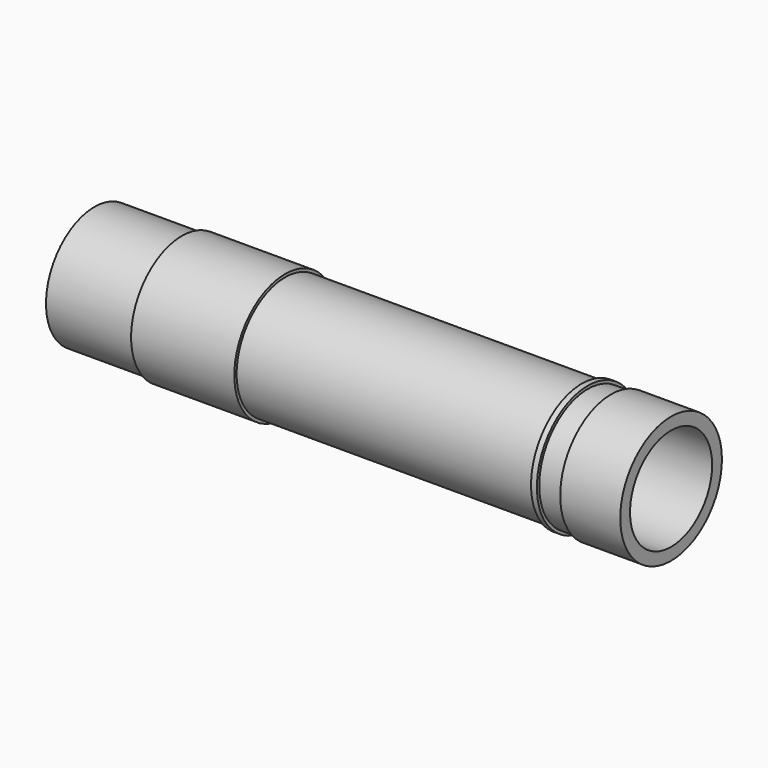
from build123d import *

# Parameters (mm, degrees)
F0_R      = 10.4
F0_R_2    = 8.8
F1_DEPTH  = 13.1
F2_DEPTH  = 25
F3_DEPTH  = 1.9
F4_R      = 10.9
F4_R_2    = 10.4
F5_DEPTH  = 17.7
F6_DEPTH  = 68.6
F7_R      = 10.9
F7_R_2    = 10.4
F7_R_3    = 8.8
F8_DEPTH  = 1
F9_R      = 10.4
F9_R_2    = 8.8
F10_DEPTH = 4
F11_R     = 10.9
F11_R_2   = 10.4
F11_R_3   = 8.8
F12_DEPTH = 10.3


with BuildPart() as f1:
    # F0 (on Right) → F1 (new body)
    with BuildSketch(Plane.YZ):
        Circle(F0_R)
        Circle(F0_R_2, mode=Mode.SUBTRACT)
        Circle(F0_R_2)
    extrude(amount=-F1_DEPTH)

    # F0 (on Right) → F2 (cut)
    with BuildSketch(Plane.YZ):
        Circle(F0_R_2)
    extrude(amount=-F2_DEPTH, mode=Mode.SUBTRACT)

    # F3 (add): a face of the model
    f3_faces = [f1.faces().sort_by_distance(p)[0] for p in [
        (-13.1, -10.105843579, 0),
    ]]
    extrude(f3_faces, amount=F3_DEPTH)

    # F4 (on face) + F0 (on Right) → F5 (join)
    with BuildSketch(Plane.YZ):
        Circle(F4_R)
        Circle(F4_R_2, mode=Mode.SUBTRACT)
    with BuildSketch(Plane.YZ):
        Circle(F0_R)
        Circle(F0_R_2, mode=Mode.SUBTRACT)
    extrude(amount=F5_DEPTH)

    # F0 (on Right) → F6 (join)
    with BuildSketch(Plane.YZ):
        Circle(F0_R)
        Circle(F0_R_2, mode=Mode.SUBTRACT)
    extrude(amount=F6_DEPTH)

    # F7 (on face) → F8 (join)
    with BuildSketch(Plane.YZ.offset(68.6)):
        Circle(F7_R)
        Circle(F7_R_2, mode=Mode.SUBTRACT)
        Circle(F7_R_2)
        Circle(F7_R_3, mode=Mode.SUBTRACT)
    extrude(amount=F8_DEPTH)

    # F9 (on face) → F10 (join)
    with BuildSketch(Plane.YZ.offset(69.6)):
        Circle(F9_R)
        Circle(F9_R_2, mode=Mode.SUBTRACT)
    extrude(amount=F10_DEPTH)

    # F11 (on face) → F12 (join)
    with BuildSketch(Plane.YZ.offset(73.6)):
        Circle(F11_R)
        Circle(F11_R_2, mode=Mode.SUBTRACT)
        Circle(F11_R_2)
        Circle(F11_R_3, mode=Mode.SUBTRACT)
    extrude(amount=F12_DEPTH)


solid = f1.part
